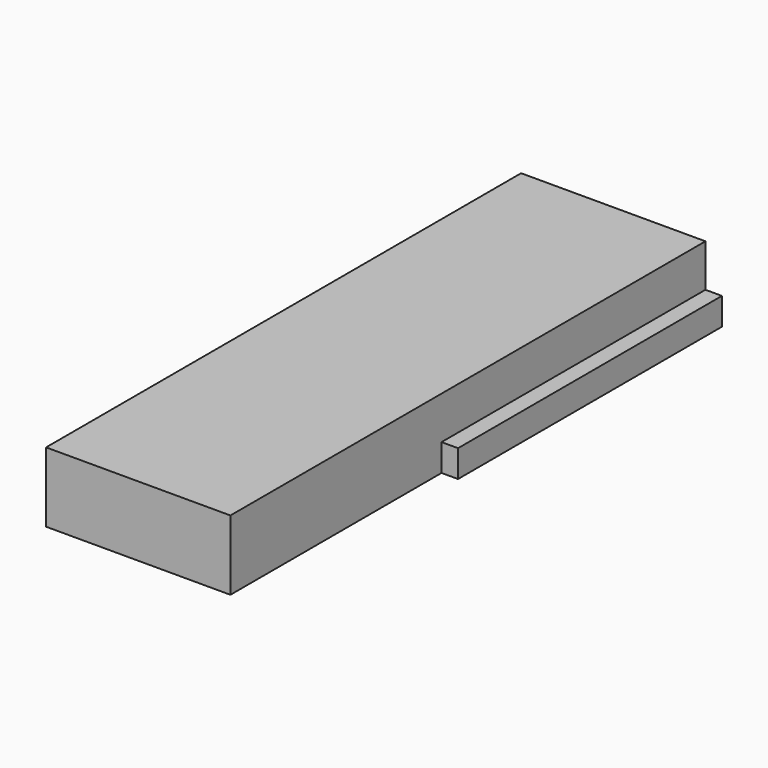
from build123d import *

# Parameters (mm, degrees)
F0_W     = 12.065
F0_H     = 4.572
F1_DEPTH = 17.272
F2_W     = 12.065
F2_H     = 2.794
F2_W_2   = 1.0795
F2_H_2   = 1.778
F3_DEPTH = 21.59


with BuildPart() as f1:
    # F0 (on Front) → F1 (new body)
    with BuildSketch(Plane.XZ):
        Rectangle(F0_W, F0_H)
    extrude(amount=F1_DEPTH)

    # F2 (on face) → F3 (join)
    with BuildSketch(Plane(origin=(0, 0, 0), x_dir=(-1, 0, 0), z_dir=(0, 1, 0))):
        with Locations((0, 0.889)):
            Rectangle(F2_W, F2_H)
        with Locations((6.57225, -1.397)):
            Rectangle(F2_W_2, F2_H_2)
        with Locations((0, -1.397)):
            Rectangle(F2_W, F2_H_2)
        with Locations((-6.57225, -1.397)):
            Rectangle(F2_W_2, F2_H_2)
    extrude(amount=F3_DEPTH)


solid = f1.part
